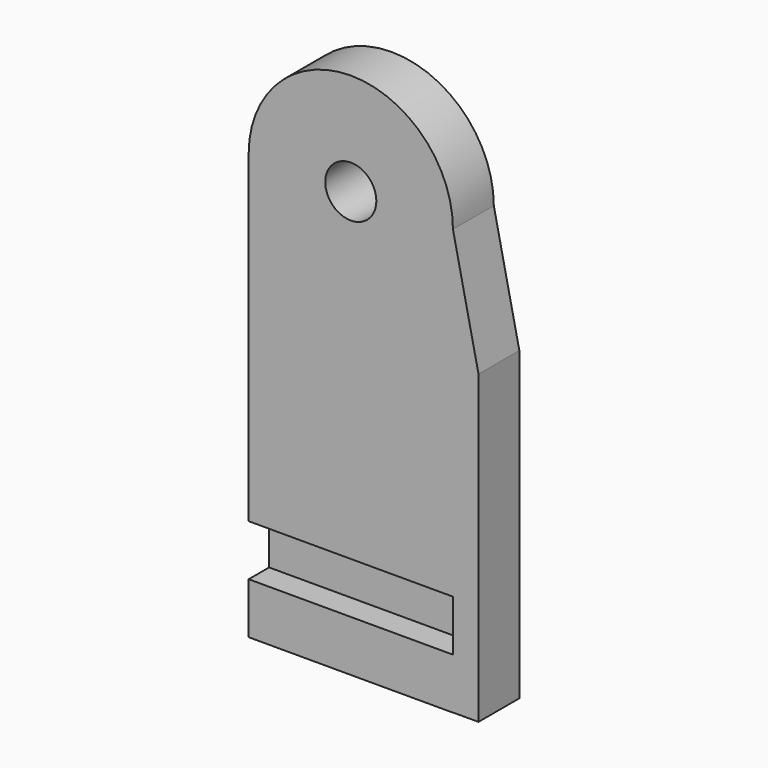
from build123d import *

# Parameters (mm, degrees)
F0_R     = 1.5
F1_DEPTH = 3
F2_DEPTH = 1.5


with BuildPart() as f1:
    # F0 (on Front) → F1 (new body)
    with BuildSketch(Plane.XZ):
        with BuildLine():
            Line((-6, 12.7287628129), (-6, 0))
            Line((-6, 0), (-6, -6.2712371871))
            Line((-6, -6.2712371871), (0, -6.2712371871))
            Line((0, -6.2712371871), (6, -6.2712371871))
            Line((6, -6.2712371871), (6, -9.2712371871))
            Line((6, -9.2712371871), (0, -9.2712371871))
            Line((0, -9.2712371871), (-6, -9.2712371871))
            Line((-6, -9.2712371871), (-6, -12.2712371871))
            Line((-6, -12.2712371871), (0, -12.2712371871))
            Line((0, -12.2712371871), (6, -12.2712371871))
            Line((6, -12.2712371871), (6, -12.2612630948))
            Line((6, -12.2612630948), (7.5, -12.2612630948))
            Line((7.5, -12.2612630948), (7.5, -6.2712371871))
            Line((7.5, -6.2712371871), (7.5, 5.7287628129))
            Line((7.5, 5.7287628129), (6, 12.7287628129))
            ThreePointArc((6, 12.7287628129), (0, 18.7287628129), (-6, 12.7287628129))
        make_face()
        with Locations((0, 12.7287628129)):
            Circle(F0_R, mode=Mode.SUBTRACT)
        with BuildLine():
            Line((-6, 12.7287628129), (-6, 0))
            Line((-6, 0), (-6, -6.2712371871))
            Line((-6, -6.2712371871), (0, -6.2712371871))
            Line((0, -6.2712371871), (6, -6.2712371871))
            Line((6, -6.2712371871), (6, -9.2712371871))
            Line((6, -9.2712371871), (0, -9.2712371871))
            Line((0, -9.2712371871), (-6, -9.2712371871))
            Line((-6, -9.2712371871), (-6, -12.2712371871))
            Line((-6, -12.2712371871), (0, -12.2712371871))
            Line((0, -12.2712371871), (6, -12.2712371871))
            Line((6, -12.2712371871), (6, -12.2612630948))
            Line((6, -12.2612630948), (7.5, -12.2612630948))
            Line((7.5, -12.2612630948), (7.5, -6.2712371871))
            Line((7.5, -6.2712371871), (7.5, 5.7287628129))
            Line((7.5, 5.7287628129), (6, 12.7287628129))
            ThreePointArc((6, 12.7287628129), (0, 18.7287628129), (-6, 12.7287628129))
        make_face()
        with Locations((0, 12.7287628129)):
            Circle(F0_R, mode=Mode.SUBTRACT)
    extrude(amount=F1_DEPTH)

    # F0 (on Front) → F2 (join)
    with BuildSketch(Plane.XZ):
        Polygon((0, -6.2712371871), (-6, -6.2712371871), (-6, -9.2712371871), (0, -9.2712371871), (6, -9.2712371871), (6, -6.2712371871), align=None)
    extrude(amount=F2_DEPTH)


solid = f1.part
